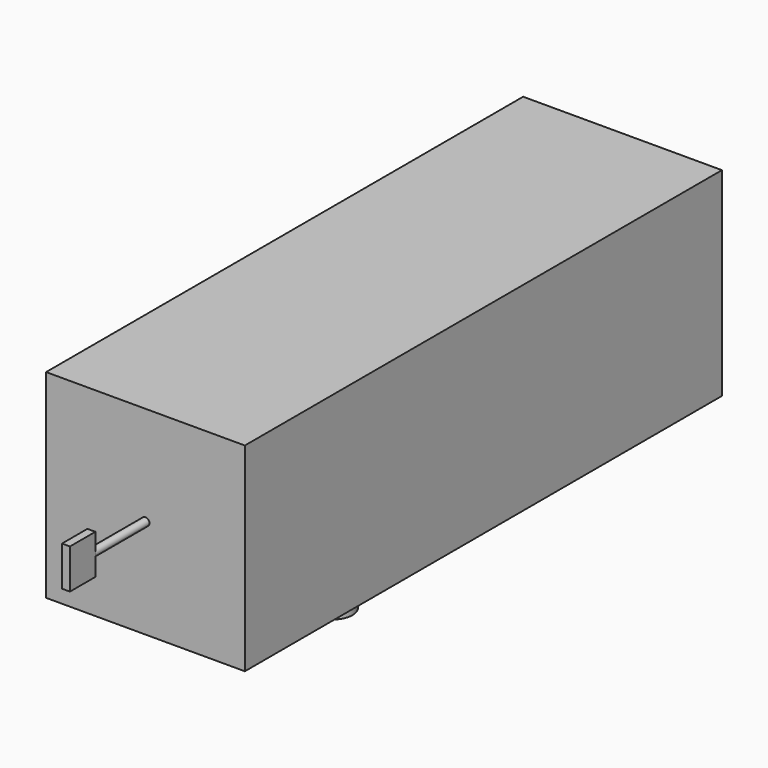
from build123d import *

# Parameters (mm, degrees)
F0_W     = 50
F0_H     = 50
F1_DEPTH = 150
F2_R     = 1
F3_DEPTH = 25
F4_W     = 2
F4_H     = 10
F5_DEPTH = 8
F6_R     = 5
F7_DEPTH = 18


with BuildPart() as f1:
    # F0 (on Front) → F1 (new body)
    with BuildSketch(Plane.XZ):
        with Locations((0, 25)):
            Rectangle(F0_W, F0_H)
    extrude(amount=F1_DEPTH)

    # F2 (on face) → F3 (join)
    with BuildSketch(Plane.XZ.offset(150)):
        with Locations((0, 25)):
            Circle(F2_R)
    extrude(amount=F3_DEPTH)

    # F4 (on face) → F5 (join)
    with BuildSketch(Plane.XZ.offset(175)):
        with Locations((0, 25)):
            Rectangle(F4_W, F4_H)
    extrude(amount=-F5_DEPTH)

    # F6 (on face) → F7 (join)
    with BuildSketch(Plane(origin=(0, 0, 0), x_dir=(1, 0, 0), z_dir=(0, 0, -1))):
        with Locations((0, 91.149837)):
            Circle(F6_R)
    extrude(amount=F7_DEPTH)


solid = f1.part
